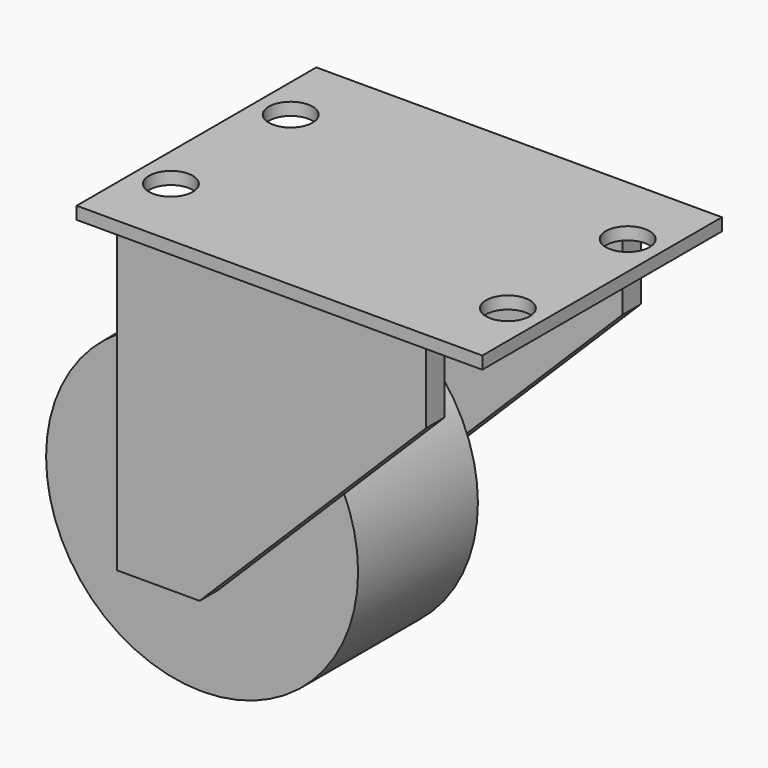
from build123d import *

# Parameters (mm, degrees)
F0_W           = 65
F0_H           = 48
F1_DEPTH       = 2
F2_W           = 49.5
F2_H           = 3.7
F3_DEPTH       = 49
F5_DEPTH       = 58
F6_R           = 25
F7_DEPTH       = 12
F8_R           = 3.5
F9_DEPTH       = 5
F11_R          = 3
F12_DEPTH      = 18
F12_DEPTH_BACK = 18
F13_R          = 25
F14_DEPTH      = 12
F14_DEPTH_BACK = 12


with BuildPart() as f1:
    # F0 (on Top) → F1 (new body)
    with BuildSketch(Plane.XY):
        Rectangle(F0_W, F0_H)
    extrude(amount=F1_DEPTH)

    # F2 (on face) → F3 (join)
    with BuildSketch(Plane(origin=(0, 0, 0), x_dir=(1, 0, 0), z_dir=(0, 0, -1))):
        with Locations((-3.25, 19.65)):
            Rectangle(F2_W, F2_H)
        with Locations((-3.25, -19.65)):
            Rectangle(F2_W, F2_H)
    extrude(amount=F3_DEPTH)

    # F4 (on face) → F5 (cut)
    with BuildSketch(Plane(origin=(0, 21.5, 0), x_dir=(-1, 0, 0), z_dir=(0, 1, 0))):
        Polygon((-21.5, -49), (14.8, -49), (-21.5, -12.831701), align=None)
    extrude(amount=-F5_DEPTH, mode=Mode.SUBTRACT)

    # F8 (on face) → F9 (cut)
    with BuildSketch(Plane.XY.offset(2)):
        with Locations((27, -12)):
            Circle(F8_R)
        with Locations((-27, -12)):
            Circle(F8_R)
        with Locations((-27, 12)):
            Circle(F8_R)
        with Locations((27, 12)):
            Circle(F8_R)
    extrude(amount=-F9_DEPTH, mode=Mode.SUBTRACT)

    # F11 (on Front) → F12 (join, two sides)
    with BuildSketch(Plane.XZ) as f12_sk:
        with Locations((-22, -43)):
            Circle(F11_R)
    extrude(amount=F12_DEPTH)
    extrude(f12_sk.sketch, amount=-F12_DEPTH_BACK)

    # F13 (on Front) → F14 (join, two sides)
    with BuildSketch(Plane.XZ) as f14_sk:
        with Locations((-22, -43)):
            Circle(F13_R)
    extrude(amount=F14_DEPTH)
    extrude(f14_sk.sketch, amount=-F14_DEPTH_BACK)


with BuildPart() as f7:
    # F6 (on Front) → F7 (new body, symmetric)
    with BuildSketch(Plane.XZ):
        with Locations((-22, -43)):
            Circle(F6_R)
    extrude(amount=F7_DEPTH, both=True)


solid = f1.part
